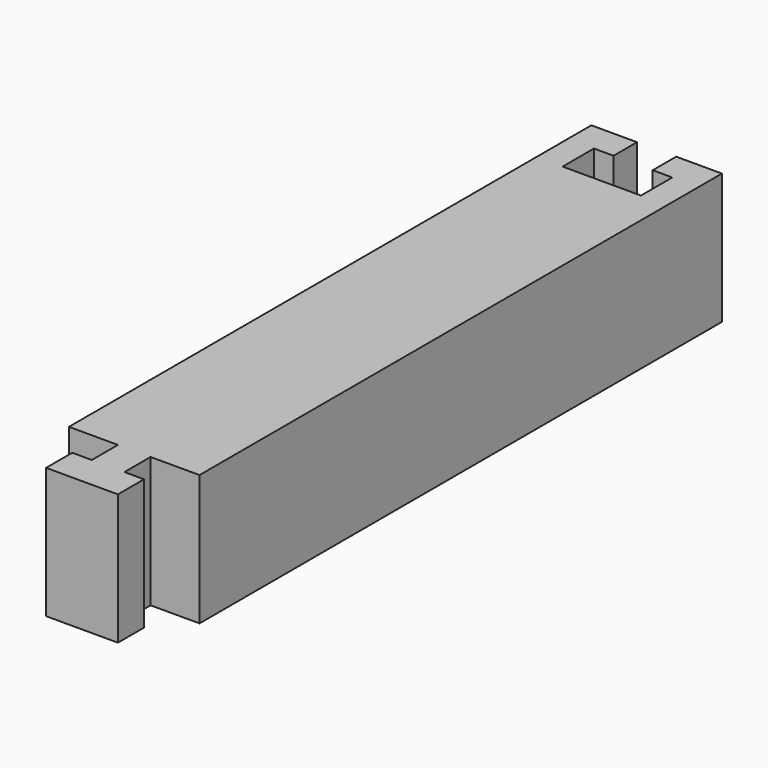
from build123d import *

# Parameters (mm, degrees)
F0_W     = 5
F0_H     = 7.5
F0_H_2   = 5
F0_H_3   = 2.5
F1_DEPTH = 20


with BuildPart() as f1:
    # F0 (on Top) → F1 (new body)
    with BuildSketch(Plane.XY):
        Polygon((10, 35.000000149), (10, 39.5), (6, 39.5), (-6, 39.5), (-10, 39.5), (-10, 35.000000149), (-10, -32.1153849363), (-10, -39.5), (-10, -50), (-5.75, -50), (-2.5, -50), (-2.5, -42.5), (2.5, -42.5), (2.5, -50), (5.75, -50), (10, -50), (10, -39.5), (10, -32.1153849363), align=None)
        Polygon((10, 39.5), (10, 50), (3, 50), (3, 45.5), (6, 45.5), (6, 39.5), align=None)
        Polygon((-3, 45.5), (-3, 50), (-10, 50), (-10, 39.5), (-6, 39.5), (-6, 45.5), align=None)
        with Locations((0, -46.25)):
            Rectangle(F0_W, F0_H)
        with Locations((0, -52.5)):
            Rectangle(F0_W, F0_H_2)
        with Locations((0, -56.25)):
            Rectangle(F0_W, F0_H_3)
        Polygon((5.5, -55), (2.5, -55), (2.5, -57.5), (-2.5, -57.5), (-2.5, -55), (-5.5, -55), (-5.5, -60), (5.5, -60), align=None)
    extrude(amount=F1_DEPTH)


solid = f1.part
